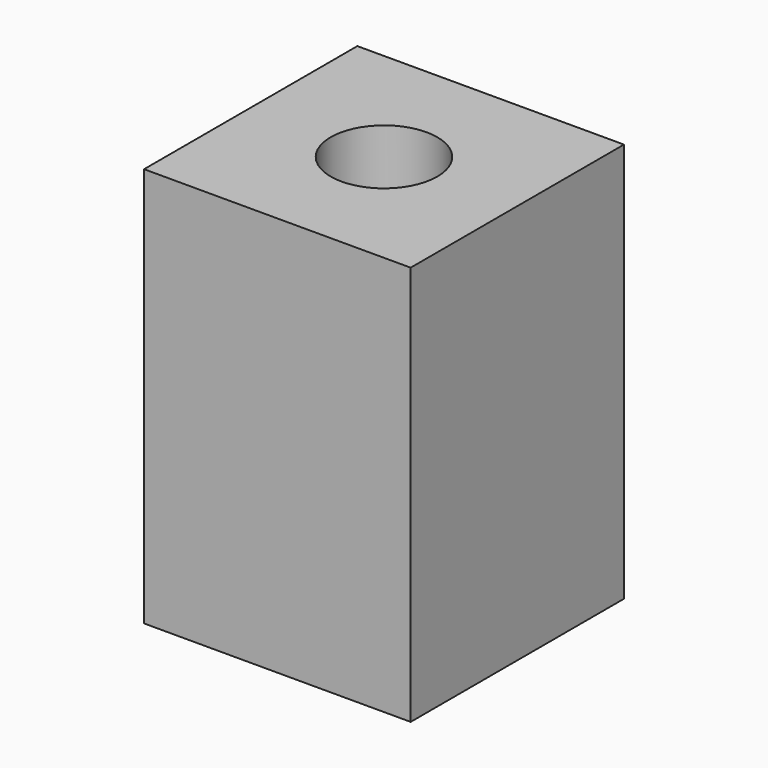
from build123d import *

# Parameters (mm, degrees)
CYLINDER_R     = 0.6
CYLINDER_DEPTH = 10
BOX008_W       = 3
BOX008_H       = 3
BOX008_DEPTH   = 4.5


with BuildPart() as hole:
    # Cylinder → Cylinder (new body)
    with BuildSketch(Plane.XY):
        Circle(CYLINDER_R)
    extrude(amount=CYLINDER_DEPTH)


with BuildPart() as stand_hole_cut:
    # Box008 → Box008 (new body)
    with BuildSketch(Plane(origin=(-1.5, -1.5, 0), x_dir=(1, 0, 0), z_dir=(0, 0, 1))):
        with Locations((1.5, 1.5)):
            Rectangle(BOX008_W, BOX008_H)
    extrude(amount=BOX008_DEPTH)

    # Cut003002: cut hole
    add(hole.part, mode=Mode.SUBTRACT)


solid = stand_hole_cut.part
